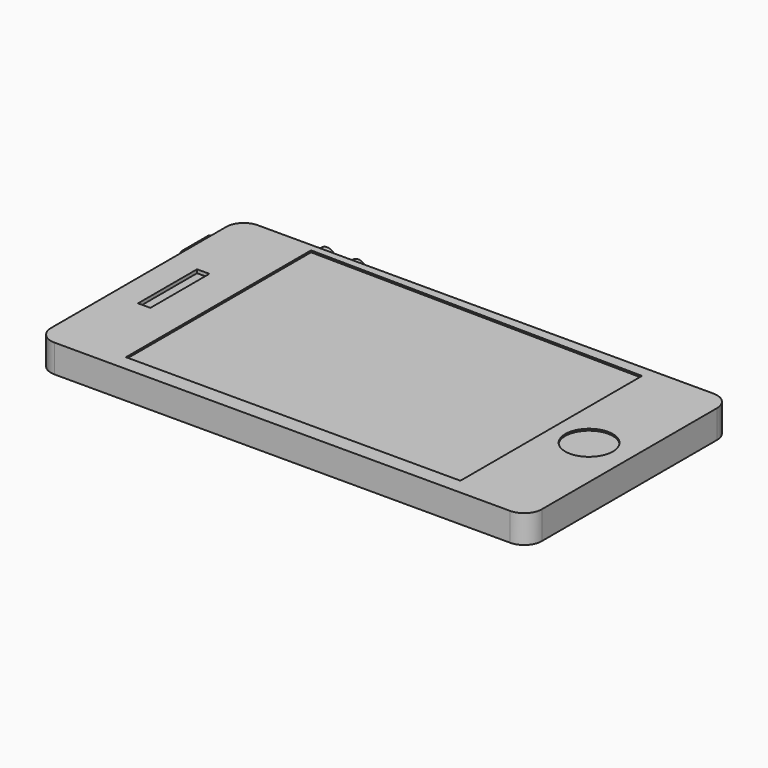
from build123d import *

# Parameters (mm, degrees)
F0_W      = 140
F0_H      = 72.5
F1_DEPTH  = 8
F2_R      = 5
F4_R      = 6.784666
F5_DEPTH  = 0.5
F7_DEPTH  = 0.5
F5_FACE_R = 6.784666
F8_DEPTH  = 1
F9_W      = 3.526121
F9_H      = 21.039179
F10_DEPTH = 1
F11_W     = 11.203378
F11_H     = 2.960671
F12_DEPTH = 3
F13_R     = 1
F14_R     = 2.501655
F14_R_2   = 2.354917
F15_DEPTH = 3


with BuildPart() as f1:
    # F0 (on Top) → F1 (new body)
    with BuildSketch(Plane.XY):
        with Locations((2.468213, 9.830183)):
            Rectangle(F0_W, F0_H)
    extrude(amount=F1_DEPTH)

    # F2
    f2_edges = [f1.edges().sort_by_distance(p)[0] for p in [
        (72.468213, -26.419817, 4),
        (72.468213, 46.080183, 4),
        (-67.531787, -26.419817, 4),
        (-67.531787, 46.080183, 4),
    ]]
    fillet(f2_edges, radius=F2_R)

    # F4 (on face) → F5 (join)
    with BuildSketch(Plane.XY.offset(8)):
        with Locations((60.643088, 10.225745)):
            Circle(F4_R)
    extrude(amount=F5_DEPTH)

    # F6 (on face) → F7 (cut)
    with BuildSketch(Plane.XY.offset(8)):
        Polygon((49.707294, 42.785898), (-45.698922, 44.026859), (-45.698922, -21.970822), (49.707294, -21.970822), align=None)
    extrude(amount=-F7_DEPTH, mode=Mode.SUBTRACT)

    # F5_face (on face) → F8 (cut)
    with BuildSketch(Plane(origin=(60.643088, 10.225745, 8.5), x_dir=(1, 0, 0), z_dir=(0, 0, 1))):
        Circle(F5_FACE_R)
    extrude(amount=-F8_DEPTH, mode=Mode.SUBTRACT)

    # F9 (on face) → F10 (cut)
    with BuildSketch(Plane.XY.offset(8)):
        with Locations((-58.063432, 10.51959)):
            Rectangle(F9_W, F9_H)
    extrude(amount=-F10_DEPTH, mode=Mode.SUBTRACT)

    # F11 (on face) → F12 (join)
    with BuildSketch(Plane(origin=(-67.531787, 0, 0), x_dir=(0, -1, 0), z_dir=(-1, 0, 0))):
        with Locations((-33.545699, 4.414106)):
            Rectangle(F11_W, F11_H)
    extrude(amount=F12_DEPTH)

    # F13
    f13_edges = [f1.edges().sort_by_distance(p)[0] for p in [
        (-70.531787, 27.94401, 4.414106),
        (-70.531787, 39.147388, 4.414106),
    ]]
    fillet(f13_edges, radius=F13_R)

    # F14 (on face) → F15 (join)
    with BuildSketch(Plane(origin=(0, 46.080183, 0), x_dir=(-1, 0, 0), z_dir=(0, 1, 0))):
        with Locations((45.177385, 4.408034)):
            Circle(F14_R)
        with Locations((36.282312, 4.408034)):
            Circle(F14_R_2)
    extrude(amount=F15_DEPTH)


solid = f1.part
